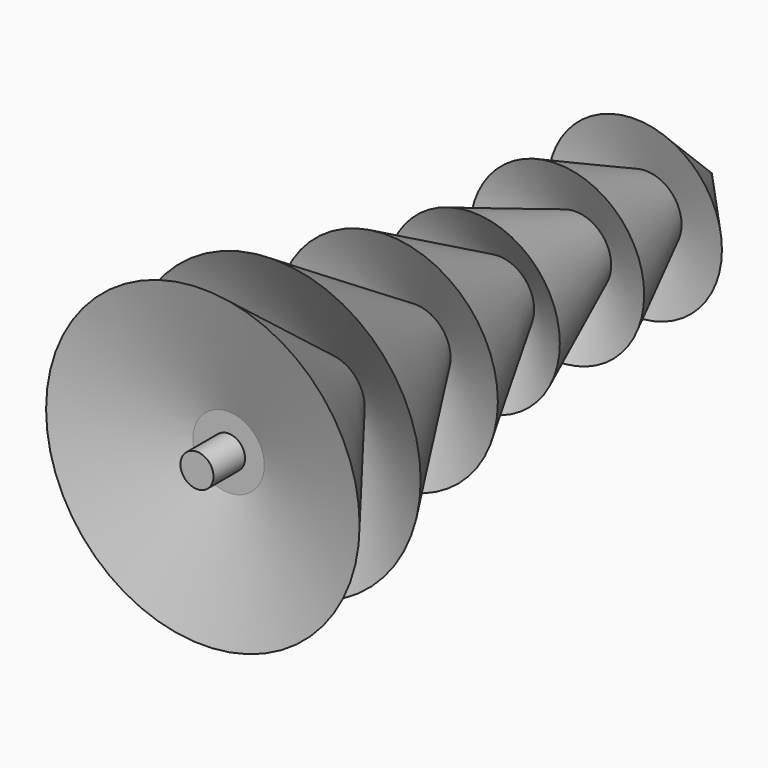
from build123d import *


with BuildPart() as f1:
    # F0 (on Top) → F1 (revolve)
    with BuildSketch(Plane.XY):
        Polygon((17.513711, 34.290001), (0, 53.647257), (0, -75.769842), (3.318388, -75.769842), (3.318388, -67.84258), (7.189839, -67.84258), (31.524677, -74.294999), (7.189839, -42.585969), (29.496774, -56.412581), (7.189839, -21.016452), (22.306934, -28.021937), (7.189839, 0), (17.513711, -6.452419), (7.189839, 19.357258), (17.513711, 14.748388), (7.189839, 37.055321), align=None)
    revolve(axis=Axis((0, -11.061292, 0), (0, 1, 0)))


solid = f1.part
